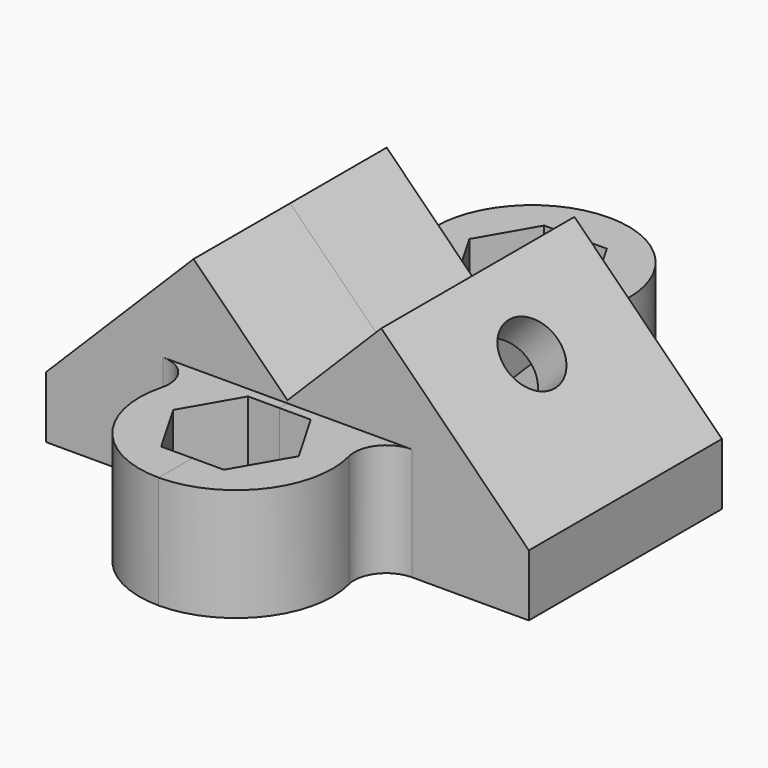
from build123d import *

# Parameters (mm, degrees)
PAD_DEPTH       = 15
PAD001_DEPTH    = 14
SKETCH002_R     = 4.02
HOLE_DEPTH      = 26.635776
POCKET_DEPTH    = 21.635776
POCKET001_DEPTH = 8


with BuildPart() as body:
    # Sketch → Pad (new body)
    with BuildSketch(Plane.XZ):
        Polygon((30, 7.667262), (11.667262, 26), (0, 14.332738), (0, 0), (30, 0), align=None)
    extrude(amount=PAD_DEPTH)

    # Sketch001 → Pad001 (join)
    with BuildSketch(Plane.XY):
        with BuildLine():
            ThreePointArc((0, -27.02), (4.02, -23), (0, -18.98))
            Line((0, -18.98), (0, -15))
            Line((0, -15), (15.491933, -15))
            ThreePointArc((15.491933, -15), (12.329656, -16.55051), (11.61895, -20))
            ThreePointArc((0, -35), (9.486833, -30.348469), (11.61895, -20))
            Line((0, -35), (0, -27.02))
        make_face()
    extrude(amount=PAD001_DEPTH)

    # Sketch002 (on DatumPlane) → Hole (cut, through all)
    with BuildSketch(Plane(origin=(18.833631, 0, 18.833631), x_dir=(-0.707107, 0, 0.707107), z_dir=(0.707107, 0, 0.707107))):
        with Locations((0.634776, 0)):
            Circle(SKETCH002_R)
    extrude(amount=-HOLE_DEPTH, mode=Mode.SUBTRACT)

    # Sketch003 (on DatumPlane) → Pocket (cut, through all)
    with BuildSketch(Plane(origin=(15.298097, 0, 15.298097), x_dir=(-0.707107, 0, 0.707107), z_dir=(0.707107, 0, 0.707107))):
        Polygon((7.384776, 3.897114), (0.634776, 7.794229), (-6.115224, 3.897114), (-6.115224, -3.897114), (0.634776, -7.794229), (7.384776, -3.897114), align=None)
    extrude(amount=-POCKET_DEPTH, mode=Mode.SUBTRACT)

    # Sketch004 (on Face13 of Pocket) → Pocket001 (cut)
    with BuildSketch(Plane(origin=(0, 0, 14), x_dir=(-1, 0, 0), z_dir=(0, 0, 1))):
        Polygon((3.897114, 29.75), (-3.897114, 29.75), (-7.794229, 23), (-3.897114, 16.25), (3.897114, 16.25), (7.794229, 23), align=None)
    extrude(amount=-POCKET001_DEPTH, mode=Mode.SUBTRACT)


with BuildPart() as part_mirroring:
    # Part__Mirroring: instance of Body
    add(body.part.mirror(Plane(origin=(0, 0, 0), x_dir=(0, -1, 0), z_dir=(1, 0, 0))))


with BuildPart() as part_mirroring002:
    # Part__Mirroring002: instance of Part__Mirroring
    add(part_mirroring.part.mirror(Plane(origin=(0, 0, 0), x_dir=(1, 0, 0), z_dir=(0, 1, 0))))


with BuildPart() as fusion:
    # Part__Mirroring001: instance of Body
    add(body.part.mirror(Plane(origin=(0, 0, 0), x_dir=(1, 0, 0), z_dir=(0, 1, 0))))

    # Fusion: union Body, Part__Mirroring002, Part__Mirroring
    add(body.part)
    add(part_mirroring002.part)
    add(part_mirroring.part)


solid = fusion.part
